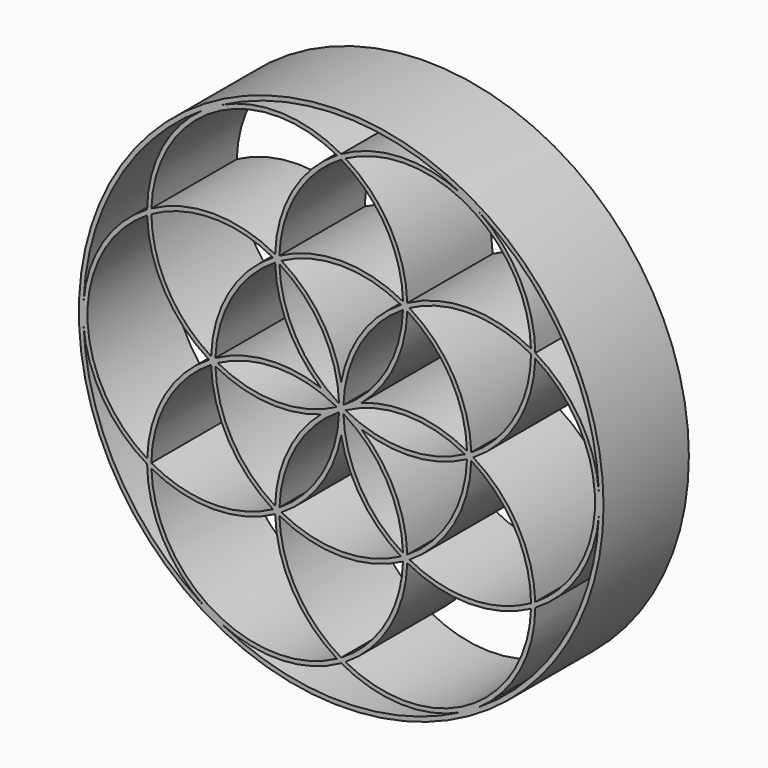
from build123d import *

# Parameters (mm, degrees)
F0_R     = 61.5
F1_DEPTH = 25


with BuildPart() as f1:
    # F0 (on Front) → F1 (new body)
    with BuildSketch(Plane.XZ):
        Circle(F0_R)
        with BuildLine():
            ThreePointArc((-28.054004, -53.546012), (-13.904054, -56.461066), (0, -52.537306))
            ThreePointArc((0, -52.537306), (13.904054, -56.461066), (28.054004, -53.546012))
            ThreePointArc((28.054004, -53.546012), (0, -60.45), (-28.054004, -53.546012))
        make_face(mode=Mode.SUBTRACT)
        with BuildLine():
            ThreePointArc((-44.487497, -26.839569), (-29.986229, -30.499997), (-15.488273, -26.826475))
            ThreePointArc((-15.488273, -26.826475), (-11.420658, -41.218834), (-1, -51.947086))
            ThreePointArc((-1, -51.947086), (-29.75, -51.528512), (-44.487497, -26.839569))
        make_face(mode=Mode.SUBTRACT)
        with BuildLine():
            ThreePointArc((0, -51.382534), (-10.404205, -40.976641), (-14.487497, -26.839569))
            ThreePointArc((-14.487497, -26.839569), (0, -30.5), (14.487497, -26.839569))
            ThreePointArc((14.487497, -26.839569), (10.404205, -40.976641), (0, -51.382534))
        make_face(mode=Mode.SUBTRACT)
        with BuildLine():
            ThreePointArc((-60.399208, -2.477526), (-55.848744, -16.189269), (-45.498641, -26.268653))
            ThreePointArc((-45.498641, -26.268653), (-41.94469, -40.271797), (-32.345204, -51.068486))
            ThreePointArc((-32.345204, -51.068486), (-52.351236, -30.225), (-60.399208, -2.477526))
        make_face(mode=Mode.SUBTRACT)
        with BuildLine():
            ThreePointArc((-45.487042, 25.091798), (-41.402951, 10.71203), (-30.976545, 0))
            ThreePointArc((-30.976545, 0), (-41.406887, -10.718838), (-45.487497, -25.107518))
            ThreePointArc((-45.487497, -25.107518), (-59.487041, -0.007733), (-45.487042, 25.091798))
        make_face(mode=Mode.SUBTRACT)
        with BuildLine():
            ThreePointArc((-44.498586, -25.691944), (-40.689081, -11.47831), (-30.487497, -0.873244))
            ThreePointArc((-30.487497, -0.873244), (-26.409976, -15.256598), (-15.987047, -25.974321))
            ThreePointArc((-15.987047, -25.974321), (-30.279198, -29.50655), (-44.498586, -25.691944))
        make_face(mode=Mode.SUBTRACT)
        with BuildLine():
            ThreePointArc((-29.487497, -0.858807), (-17.326184, -4.430401), (-4.76314, -2.75))
            ThreePointArc((-4.76314, -2.75), (-12.499932, -12.789714), (-15.487497, -25.107518))
            ThreePointArc((-15.487497, -25.107518), (-25.547749, -14.75), (-29.487497, -0.858807))
        make_face(mode=Mode.SUBTRACT)
        with BuildLine():
            ThreePointArc((-14.473642, -25.099514), (-10.534797, -11.238761), (-0.500455, -0.897245))
            ThreePointArc((-0.500455, -0.897245), (-4.439299, -14.757998), (-14.473642, -25.099514))
        make_face(mode=Mode.SUBTRACT)
        with BuildLine():
            ThreePointArc((1, -51.947086), (11.420658, -41.218834), (15.488273, -26.826475))
            ThreePointArc((15.488273, -26.826475), (29.986229, -30.499997), (44.487497, -26.839569))
            ThreePointArc((44.487497, -26.839569), (29.75, -51.528512), (1, -51.947086))
        make_face(mode=Mode.SUBTRACT)
        with BuildLine():
            ThreePointArc((-14, -25.966324), (-4.826252, -17.220116), (0, -5.5))
            ThreePointArc((0, -5.5), (4.826252, -17.220116), (14, -25.966324))
            ThreePointArc((14, -25.966324), (0, -29.5), (-14, -25.966324))
        make_face(mode=Mode.SUBTRACT)
        with BuildLine():
            ThreePointArc((14.486594, -25.091517), (4.452251, -14.75), (0.513406, -0.889245))
            ThreePointArc((0.513406, -0.889245), (10.547749, -11.230762), (14.486594, -25.091517))
        make_face(mode=Mode.SUBTRACT)
        with BuildLine():
            ThreePointArc((28.973189, 0), (15, -3.519238), (1.026811, 0))
            ThreePointArc((1.026811, 0), (15, 3.519238), (28.973189, 0))
        make_face(mode=Mode.SUBTRACT)
        with BuildLine():
            ThreePointArc((15.487497, -25.107518), (12.499932, -12.789714), (4.76314, -2.75))
            ThreePointArc((4.76314, -2.75), (17.326184, -4.430401), (29.487497, -0.858807))
            ThreePointArc((29.487497, -0.858807), (25.547749, -14.75), (15.487497, -25.107518))
        make_face(mode=Mode.SUBTRACT)
        with BuildLine():
            ThreePointArc((44.498579, -25.691267), (30.28471, -29.498626), (16, -25.966324))
            ThreePointArc((16, -25.966324), (26.413775, -15.25), (30.487497, -0.873244))
            ThreePointArc((30.487497, -0.873244), (40.688914, -11.478015), (44.498579, -25.691267))
        make_face(mode=Mode.SUBTRACT)
        with BuildLine():
            ThreePointArc((32.345204, -51.068486), (41.94469, -40.271797), (45.498641, -26.268653))
            ThreePointArc((45.498641, -26.268653), (55.848744, -16.189269), (60.399208, -2.477526))
            ThreePointArc((60.399208, -2.477526), (52.351236, -30.225), (32.345204, -51.068486))
        make_face(mode=Mode.SUBTRACT)
        with BuildLine():
            ThreePointArc((-32.345204, 51.068486), (-41.94469, 40.271797), (-45.498641, 26.268653))
            ThreePointArc((-45.498641, 26.268653), (-55.848744, 16.189269), (-60.399208, 2.477526))
            ThreePointArc((-60.399208, 2.477526), (-52.351236, 30.225), (-32.345204, 51.068486))
        make_face(mode=Mode.SUBTRACT)
        with BuildLine():
            ThreePointArc((-44.498426, 25.676034), (-30.286966, 29.490471), (-16.000887, 25.965778))
            ThreePointArc((-16.000887, 25.965778), (-26.414035, 15.249549), (-30.487497, 0.873244))
            ThreePointArc((-30.487497, 0.873244), (-40.685169, 11.471382), (-44.498426, 25.676034))
        make_face(mode=Mode.SUBTRACT)
        with BuildLine():
            ThreePointArc((-15.487497, 25.107518), (-12.499932, 12.789714), (-4.76314, 2.75))
            ThreePointArc((-4.76314, 2.75), (-17.326184, 4.430401), (-29.487497, 0.858807))
            ThreePointArc((-29.487497, 0.858807), (-25.547749, 14.75), (-15.487497, 25.107518))
        make_face(mode=Mode.SUBTRACT)
        with BuildLine():
            ThreePointArc((-28.973189, 0), (-15, 3.519238), (-1.026811, 0))
            ThreePointArc((-1.026811, 0), (-15, -3.519238), (-28.973189, 0))
        make_face(mode=Mode.SUBTRACT)
        with BuildLine():
            ThreePointArc((-14.486594, 25.091517), (-4.443107, 14.74859), (-0.500455, 0.881244))
            ThreePointArc((-0.500455, 0.881244), (-10.543942, 11.224172), (-14.486594, 25.091517))
        make_face(mode=Mode.SUBTRACT)
        with BuildLine():
            ThreePointArc((-1, 51.947086), (-11.420658, 41.218834), (-15.488273, 26.826475))
            ThreePointArc((-15.488273, 26.826475), (-29.986229, 30.499997), (-44.487497, 26.839569))
            ThreePointArc((-44.487497, 26.839569), (-29.75, 51.528512), (-1, 51.947086))
        make_face(mode=Mode.SUBTRACT)
        with BuildLine():
            ThreePointArc((-2e-06, 51.382535), (10.404204, 40.976642), (14.487497, 26.839569))
            ThreePointArc((14.487497, 26.839569), (0, 30.5), (-14.487497, 26.839569))
            ThreePointArc((-14.487497, 26.839569), (-10.404206, 40.976641), (-2e-06, 51.382535))
        make_face(mode=Mode.SUBTRACT)
        with BuildLine():
            ThreePointArc((14.486594, 25.091517), (10.547749, 11.230762), (0.513406, 0.889245))
            ThreePointArc((0.513406, 0.889245), (4.452251, 14.75), (14.486594, 25.091517))
        make_face(mode=Mode.SUBTRACT)
        with BuildLine():
            ThreePointArc((29.487497, 0.858807), (17.326184, 4.430401), (4.76314, 2.75))
            ThreePointArc((4.76314, 2.75), (12.499932, 12.789714), (15.487497, 25.107518))
            ThreePointArc((15.487497, 25.107518), (25.547749, 14.75), (29.487497, 0.858807))
        make_face(mode=Mode.SUBTRACT)
        with BuildLine():
            ThreePointArc((44.498579, 25.691267), (40.688914, 11.478016), (30.487496, 0.873246))
            ThreePointArc((30.487496, 0.873246), (26.413774, 15.250001), (16, 25.966324))
            ThreePointArc((16, 25.966324), (30.28471, 29.498626), (44.498579, 25.691267))
        make_face(mode=Mode.SUBTRACT)
        with BuildLine():
            ThreePointArc((-14, 25.966324), (0, 29.5), (14, 25.966324))
            ThreePointArc((14, 25.966324), (4.826252, 17.220116), (0, 5.5))
            ThreePointArc((0, 5.5), (-4.826252, 17.220116), (-14, 25.966324))
        make_face(mode=Mode.SUBTRACT)
        with BuildLine():
            ThreePointArc((45.487497, -25.107518), (41.406887, -10.718838), (30.976545, 0))
            ThreePointArc((30.976545, 0), (41.406887, 10.718838), (45.487497, 25.107518))
            ThreePointArc((45.487497, 25.107518), (59.5, 0), (45.487497, -25.107518))
        make_face(mode=Mode.SUBTRACT)
        with BuildLine():
            ThreePointArc((60.399208, 2.477526), (55.848744, 16.189269), (45.498641, 26.268653))
            ThreePointArc((45.498641, 26.268653), (41.94469, 40.271797), (32.345204, 51.068486))
            ThreePointArc((32.345204, 51.068486), (52.351236, 30.225), (60.399208, 2.477526))
        make_face(mode=Mode.SUBTRACT)
        with BuildLine():
            ThreePointArc((44.487497, 26.839569), (29.986229, 30.499997), (15.488273, 26.826475))
            ThreePointArc((15.488273, 26.826475), (11.420657, 41.218835), (0.999998, 51.947088))
            ThreePointArc((0.999998, 51.947088), (29.75, 51.528514), (44.487497, 26.839569))
        make_face(mode=Mode.SUBTRACT)
        with BuildLine():
            ThreePointArc((28.054004, 53.546012), (13.904054, 56.461066), (0, 52.537306))
            ThreePointArc((0, 52.537306), (-13.904054, 56.461066), (-28.054004, 53.546012))
            ThreePointArc((-28.054004, 53.546012), (0, 60.45), (28.054004, 53.546012))
        make_face(mode=Mode.SUBTRACT)
    extrude(amount=F1_DEPTH)


solid = f1.part
